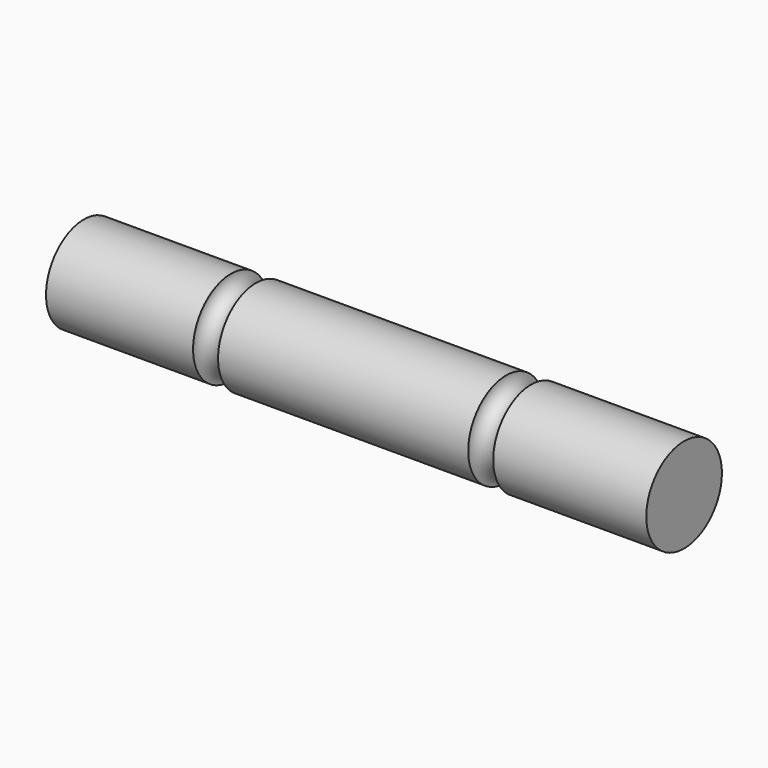
from build123d import *


with BuildPart() as f1:
    # F0 (on Top) → F1 (revolve)
    with BuildSketch(Plane.XY):
        with BuildLine():
            Line((0, 6.00075), (0, 0))
            Line((0, 0), (76.2, 0))
            Line((76.2, 0), (76.2, 6.00075))
            Line((76.2, 6.00075), (56.769, 6.00075))
            ThreePointArc((56.769, 6.00075), (55.1815, 4.41325), (53.594, 6.00075))
            Line((53.594, 6.00075), (21.844, 6.00075))
            ThreePointArc((21.844, 6.00075), (20.2565, 4.41325), (18.669, 6.00075))
            Line((18.669, 6.00075), (0, 6.00075))
        make_face()
    revolve(axis=Axis((38.1, 0, 0), (1, 0, 0)))


solid = f1.part
